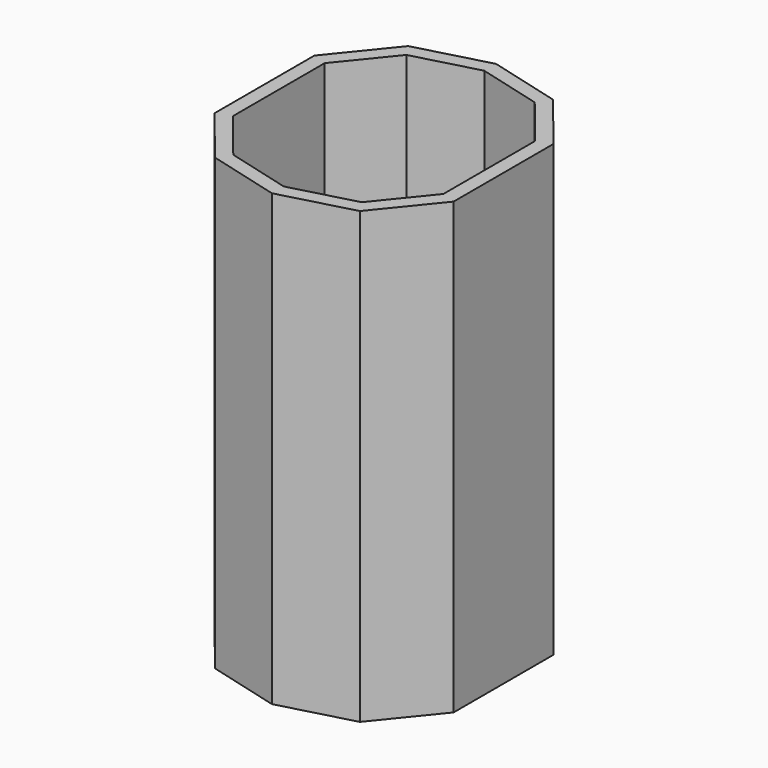
from build123d import *

# Parameters (mm, degrees)
F1_DEPTH = 228.6
F2_T     = -7.257143


with BuildPart() as f1:
    # F0 (on Top) → F1 (new body)
    with BuildSketch(Plane.XY):
        Polygon((36.801774, 41.660586), (0, 51.521592), (-36.801774, 41.660586), (-60.778881, 12.051325), (-60.778881, -51.448675), (-36.801774, -81.057936), (0, -90.918942), (36.801774, -81.057936), (60.778881, -51.448675), (60.778881, 12.051325), align=None)
    extrude(amount=F1_DEPTH)

    # F2
    f2_openings = [f1.faces().sort_by_distance(p)[0] for p in [
        (0, -19.698675, 228.6),
    ]]
    offset(amount=F2_T, openings=f2_openings)


solid = f1.part
